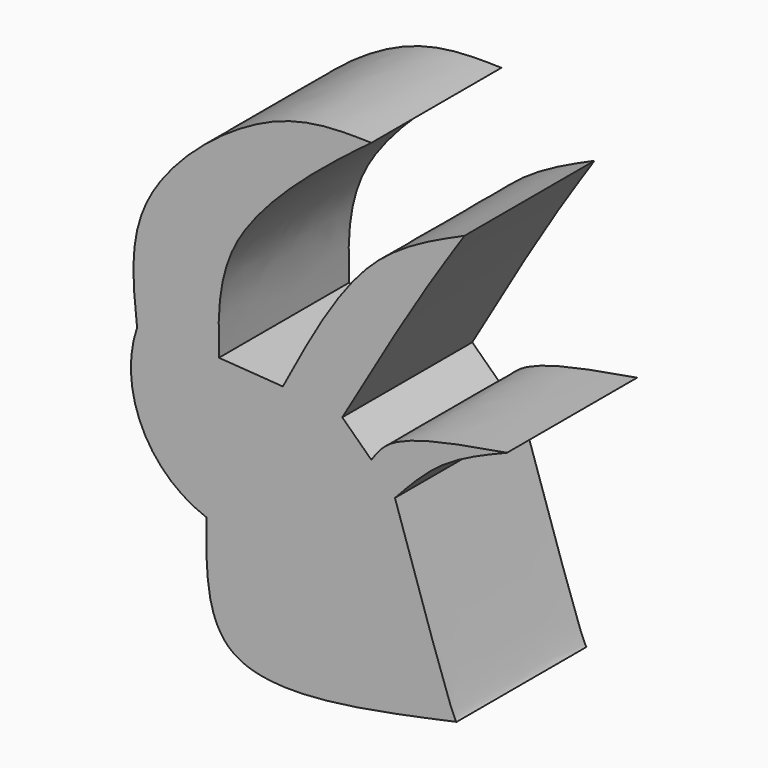
from build123d import *

# Parameters (mm, degrees)
F1_DEPTH = 29.718


with BuildPart() as f1:
    # F0 (on Front) → F1 (new body)
    with BuildSketch(Plane.XZ):
        with BuildLine():
            add(Edge.make_bspline(
                [(-32.0866517723, 23.6805640161), (-32.8666613396, 30.6609452669), (-34.5891090637, 46.0752969657), (-8.0219653397, 67.7935022903), (5.0666127176, 67.4853493372), (10.7638910413, 67.3512145877)],
                knots=[0, 0, 0, 0, 0.318515913, 0.7033593336, 1, 1, 1, 1], degree=3))
            ThreePointArc((-32.0866517723, 23.6805640161), (-31.1602984311, 7.8468410593), (-19.3750075996, -2.7678578626))
            add(Edge.make_bspline(
                [(-19.3750075996, -2.7678578626), (-19.4872973759, -10.9551838639), (-19.7579640402, -30.6901614532), (9.3271529991, -24.4572784772), (26.3459105045, -20.8101924509)],
                knots=[0, 0, 0, 0, 0.4148637091, 1, 1, 1, 1], degree=3))
            add(Edge.make_bspline(
                [(15.0694511831, 11.5839987993), (20.1102911586, -3.7183224507), (25.6163639625, -20.4329365391), (26.2890705063, -20.7807999117), (26.3459105045, -20.8101924509)],
                knots=[0, 0, 0, 0, 0.9155055073, 1, 1, 1, 1], degree=3))
            add(Edge.make_bspline(
                [(35.572104156, 25.5258046091), (31.4625973654, 23.8490473561), (23.401191173, 20.5598396748), (17.8102620302, 14.5366932021), (15.0694511831, 11.5839987993)],
                knots=[0, 0, 0, 0, 0.5097754278, 1, 1, 1, 1], degree=3))
            add(Edge.make_bspline(
                [(35.572104156, 25.5258046091), (27.2626065539, 24.1173148141), (14.6206910634, 21.9744645709), (11.7482754665, 17.7480221093), (10.7638910413, 16.2996090949)],
                knots=[0, 0, 0, 0, 0.6572973541, 1, 1, 1, 1], degree=3))
            add(Edge.make_bspline(
                [(5.4332027212, 21.4252732694), (7.2100988279, 19.7167185446), (8.9869949346, 18.0081638197), (10.7638910413, 16.2996090949)],
                knots=[0, 0, 0, 0, 7.3951789158, 7.3951789158, 7.3951789158, 7.3951789158], degree=3))
            add(Edge.make_bspline(
                [(5.4332027212, 21.4252732694), (10.0606699608, 29.4107665515), (18.3724461644, 43.7541707506), (24.8914551048, 53.5693047614), (27.7810953557, 57.9199977219)],
                knots=[0, 0, 0, 0, 0.5567362651, 1, 1, 1, 1], degree=3))
            add(Edge.make_bspline(
                [(-5.4332041182, 22.8604581207), (-0.4542495949, 32.2559538497), (8.601792123, 49.345083884), (21.8270160093, 55.2579762313), (27.7810953557, 57.9199977219)],
                knots=[0, 0, 0, 0, 0.5497936823, 1, 1, 1, 1], degree=3))
            add(Edge.make_bspline(
                [(-17.1197168529, 23.6805640161), (-13.224212608, 23.4071953843), (-9.3287083631, 23.1338267525), (-5.4332041182, 22.8604581207)],
                knots=[0, 0, 0, 0, 11.7152530309, 11.7152530309, 11.7152530309, 11.7152530309], degree=3))
            add(Edge.make_bspline(
                [(-17.1197168529, 23.6805640161), (-17.2670190845, 30.2464438146), (-17.5846554166, 44.404830652), (4.3167592547, 62.5648139276), (9.0916701904, 66.1097448537), (10.7638910413, 67.3512145877)],
                knots=[0, 0, 0, 0, 0.3597657155, 0.7757836461, 1, 1, 1, 1], degree=3))
        make_face()
    extrude(amount=F1_DEPTH)


solid = f1.part
